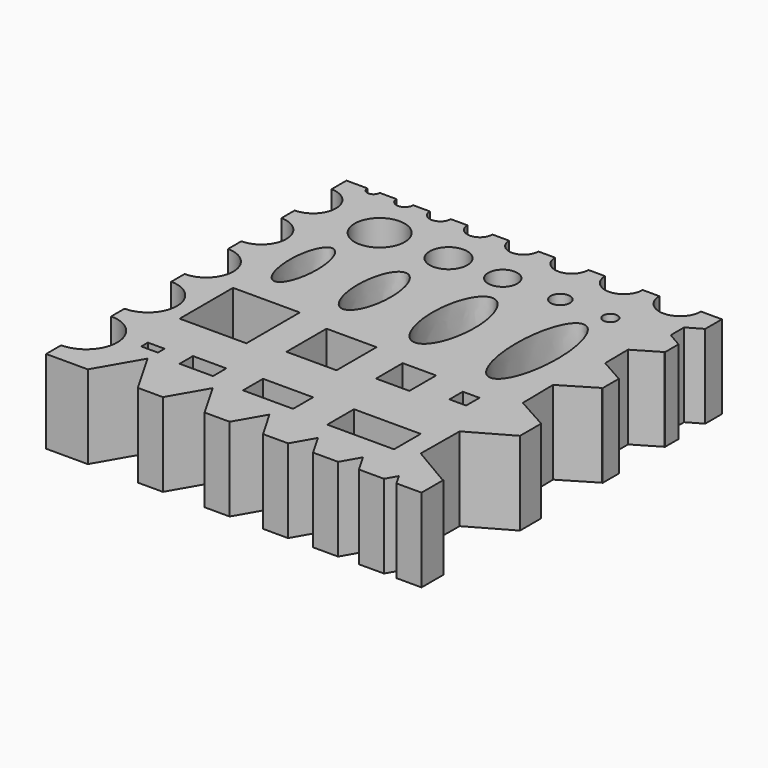
from build123d import *

# Parameters (mm, degrees)
F0_W     = 20
F0_H     = 10
F0_W_2   = 40
F0_H_2   = 20
F0_W_3   = 60
F0_H_3   = 30
F0_W_4   = 80
F0_H_4   = 80
F0_H_5   = 60
F0_H_6   = 40
F0_R     = 30
F0_R_2   = 22.5
F0_R_3   = 17.5
F0_R_4   = 11.5
F0_R_5   = 8.5
F1_DEPTH = 100


with BuildPart() as f1:
    # F0 (on Top) → F1 (new body)
    with BuildSketch(Plane.XY):
        with BuildLine():
            Line((450, 0), (425, 0))
            ThreePointArc((425, 0), (400, -25), (375, 0))
            Line((375, 0), (355, 0))
            ThreePointArc((355, 0), (332.5, -22.5), (310, 0))
            Line((310, 0), (290, 0))
            ThreePointArc((290, 0), (270, -20), (250, 0))
            Line((250, 0), (230, 0))
            ThreePointArc((230, 0), (212.5, -17.5), (195, 0))
            Line((195, 0), (175, 0))
            ThreePointArc((175, 0), (160, -15), (145, 0))
            Line((145, 0), (125, 0))
            ThreePointArc((125, 0), (112.5, -12.5), (100, 0))
            Line((100, 0), (80, 0))
            ThreePointArc((80, 0), (70, -10), (60, 0))
            Line((60, 0), (40, 0))
            ThreePointArc((40, 0), (32.5, -7.5), (25, 0))
            Line((25, 0), (0, 0))
            Line((0, 0), (0, -22.5))
            ThreePointArc((0, -22.5), (19.445436, -30.554564), (27.5, -50))
            ThreePointArc((27.5, -50), (19.445436, -69.445436), (0, -77.5))
            Line((0, -77.5), (0, -97.5))
            ThreePointArc((0, -97.5), (21.213203, -106.286797), (30, -127.5))
            ThreePointArc((30, -127.5), (21.213203, -148.713203), (0, -157.5))
            Line((0, -157.5), (0, -177.5))
            ThreePointArc((0, -177.5), (22.98097, -187.01903), (32.5, -210))
            ThreePointArc((32.5, -210), (22.98097, -232.98097), (0, -242.5))
            Line((0, -242.5), (0, -262.5))
            ThreePointArc((0, -262.5), (24.748737, -272.751263), (35, -297.5))
            ThreePointArc((35, -297.5), (24.748737, -322.248737), (0, -332.5))
            Line((0, -332.5), (0, -352.5))
            ThreePointArc((0, -352.5), (26.516504, -363.483496), (37.5, -390))
            ThreePointArc((37.5, -390), (26.516504, -416.516504), (0, -427.5))
            Line((0, -427.5), (0, -450))
            Line((0, -450), (50, -450))
            Line((50, -450), (80, -398.038476))
            Line((80, -398.038476), (110, -450))
            Line((110, -450), (140, -450))
            Line((140, -450), (165, -406.69873))
            Line((165, -406.69873), (190, -450))
            Line((190, -450), (220, -450))
            Line((220, -450), (240, -415.358984))
            Line((240, -415.358984), (260, -450))
            Line((260, -450), (290, -450))
            Line((290, -450), (305, -424.019238))
            Line((305, -424.019238), (320, -450))
            Line((320, -450), (350, -450))
            Line((350, -450), (362.5, -428.349365))
            Line((362.5, -428.349365), (375, -450))
            Line((375, -450), (405, -450))
            Line((405, -450), (412.5, -437.009619))
            Line((412.5, -437.009619), (420, -450))
            Line((420, -450), (450, -450))
            Line((450, -450), (450, -417.46326))
            Line((450, -417.46326), (449.523657, -417.733062))
            Line((449.523657, -417.733062), (399.76353, -388.454006))
            Line((399.76353, -388.454006), (400.239873, -330.720944))
            Line((400.239873, -330.720944), (450, -302.53674))
            Line((450, -302.53674), (450, -270.795623))
            Line((450, -270.795623), (410.351784, -248.692874))
            Line((410.351784, -248.692874), (409.657261, -202.510075))
            Line((409.657261, -202.510075), (449.305477, -178.8172))
            Line((449.305477, -178.8172), (450, -179.204377))
            Line((450, -179.204377), (450, -154.449326))
            Line((450, -154.449326), (420.169767, -137.61128))
            Line((420.169767, -137.61128), (419.833067, -102.9719))
            Line((419.833067, -102.9719), (449.663301, -85.36062))
            Line((449.663301, -85.36062), (450, -85.550674))
            Line((450, -85.550674), (450, -65))
            Line((450, -65), (432.679492, -55))
            Line((432.679492, -55), (432.679492, -35))
            Line((432.679492, -35), (450, -25))
            Line((450, -25), (450, 0))
        make_face()
        with Locations((70, -377.474716)):
            Rectangle(F0_W, F0_H, mode=Mode.SUBTRACT)
        with Locations((130, -377.474716)):
            Rectangle(F0_W_2, F0_H_2, mode=Mode.SUBTRACT)
        with Locations((220, -377.474716)):
            Rectangle(F0_W_3, F0_H_3, mode=Mode.SUBTRACT)
        with Locations((92.909098, -276.064495)):
            Rectangle(F0_W_4, F0_H_4, mode=Mode.SUBTRACT)
        with Locations((202.937905, -276.064495)):
            Rectangle(F0_W_3, F0_H_5, mode=Mode.SUBTRACT)
        with Locations((335, -377.474716)):
            Rectangle(F0_W_4, F0_H_6, mode=Mode.SUBTRACT)
        with Locations((292.278888, -276.064495)):
            Rectangle(F0_W_2, F0_H_6, mode=Mode.SUBTRACT)
        with Locations((362.29619, -276.064495)):
            Rectangle(F0_W, F0_H_2, mode=Mode.SUBTRACT)
        with BuildLine():
            add(Edge.make_bspline(
                [(75, -201.266855), (103.357175, -201.266855), (89.178587, -136.810288), (75, -72.353721), (60.821413, -136.810288), (46.642825, -201.266855), (75, -201.266855)],
                knots=[0, 0, 0, 2.094395, 2.094395, 4.18879, 4.18879, 6.283185, 6.283185, 6.283185], degree=2, weights=[1, 0.5, 1, 0.5, 1, 0.5, 1]))
        make_face(mode=Mode.SUBTRACT)
        with BuildLine():
            add(Edge.make_bspline(
                [(160, -205.35934), (194.598621, -205.35934), (177.299311, -134.764045), (160, -64.168751), (142.700689, -134.764045), (125.401379, -205.35934), (160, -205.35934)],
                knots=[0, 0, 0, 2.094395, 2.094395, 4.18879, 4.18879, 6.283185, 6.283185, 6.283185], degree=2, weights=[1, 0.5, 1, 0.5, 1, 0.5, 1]))
        make_face(mode=Mode.SUBTRACT)
        with Locations((90.355814, -63.188364)):
            Circle(F0_R, mode=Mode.SUBTRACT)
        with Locations((172.855814, -63.188364)):
            Circle(F0_R_2, mode=Mode.SUBTRACT)
        with BuildLine():
            add(Edge.make_bspline(
                [(255, -216.272622), (298.826291, -216.272622), (276.913145, -129.307404), (255, -42.342186), (233.086855, -129.307404), (211.173709, -216.272622), (255, -216.272622)],
                knots=[0, 0, 0, 2.094395, 2.094395, 4.18879, 4.18879, 6.283185, 6.283185, 6.283185], degree=2, weights=[1, 0.5, 1, 0.5, 1, 0.5, 1]))
        make_face(mode=Mode.SUBTRACT)
        with BuildLine():
            add(Edge.make_bspline(
                [(355, -227.867976), (398.146837, -227.867976), (376.573418, -123.509727), (355, -19.151479), (333.426582, -123.509727), (311.853163, -227.867976), (355, -227.867976)],
                knots=[0, 0, 0, 2.094395, 2.094395, 4.18879, 4.18879, 6.283185, 6.283185, 6.283185], degree=2, weights=[1, 0.5, 1, 0.5, 1, 0.5, 1]))
        make_face(mode=Mode.SUBTRACT)
        with Locations((237.855814, -63.188364)):
            Circle(F0_R_3, mode=Mode.SUBTRACT)
        with Locations((306.855814, -63.188364)):
            Circle(F0_R_4, mode=Mode.SUBTRACT)
        with Locations((366.855814, -63.188364)):
            Circle(F0_R_5, mode=Mode.SUBTRACT)
    extrude(amount=F1_DEPTH)


solid = f1.part
